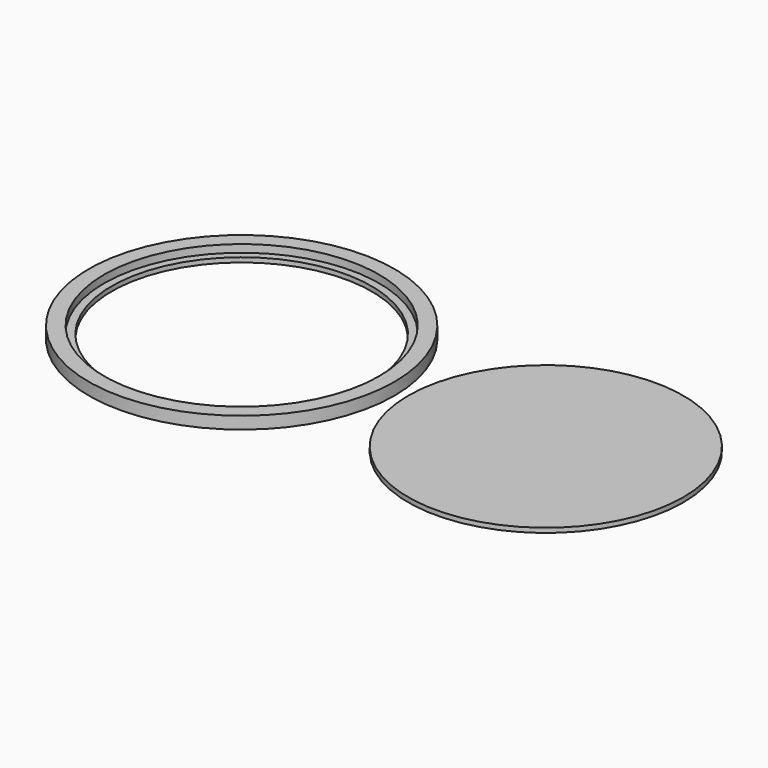
from build123d import *

# Parameters (mm, degrees)
F0_R     = 25.4
F0_R_2   = 22.86
F0_R_3   = 21.59
F1_DEPTH = 0.762
F2_DEPTH = 1.27
F3_DEPTH = 0.762
F5_ANGLE = 180


with BuildPart() as f1:
    # F0 (on Top) → F1 (new body)
    with BuildSketch(Plane.XY):
        Circle(F0_R)
        Circle(F0_R_2, mode=Mode.SUBTRACT)
        Circle(F0_R_2)
        Circle(F0_R_3, mode=Mode.SUBTRACT)
    extrude(amount=F1_DEPTH)

    # F0 (on Top) → F2 (join)
    with BuildSketch(Plane.XY):
        Circle(F0_R)
        Circle(F0_R_2, mode=Mode.SUBTRACT)
    extrude(amount=-F2_DEPTH)


with BuildPart() as f3:
    # F0 (on Top) → F3 (new body)
    with BuildSketch(Plane.XY):
        Circle(F0_R_2)
        Circle(F0_R_3, mode=Mode.SUBTRACT)
        Circle(F0_R_3)
    extrude(amount=-F3_DEPTH)


with BuildPart() as f3_1:
    # F4: moved
    add(f3.part.moved(Location((50.546, 0, 0))))


with BuildPart() as f1_1:
    # F5: moved
    add(f1.part.rotate(Axis((-26.0878447443, 0, 0), (-1, 0, 0)), F5_ANGLE))


solid = Compound([f3_1.part, f1_1.part])
